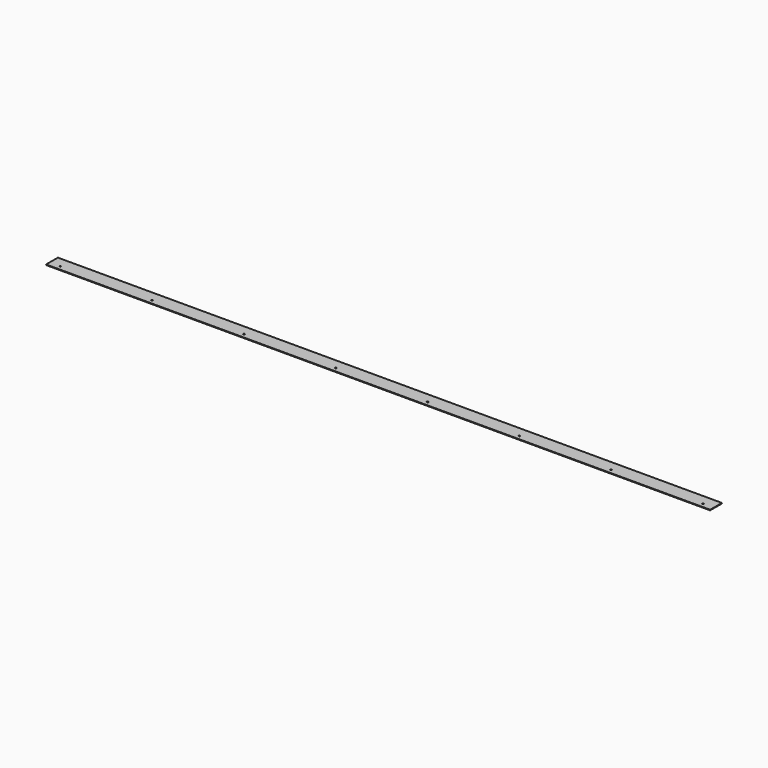
from build123d import *

# Parameters (mm, degrees)
F0_W     = 4500
F0_H     = 100
F0_R     = 5
F1_DEPTH = 4


with BuildPart() as f1:
    # F0 (on Top) → F1 (new body)
    with BuildSketch(Plane.XY):
        Rectangle(F0_W, F0_H)
        with Locations((-2177.5, -20)):
            Circle(F0_R, mode=Mode.SUBTRACT)
        with Locations((-1555.34, -20)):
            Circle(F0_R, mode=Mode.SUBTRACT)
        with Locations((-933.2, -20)):
            Circle(F0_R, mode=Mode.SUBTRACT)
        with Locations((-311.06, -20)):
            Circle(F0_R, mode=Mode.SUBTRACT)
        with Locations((311.08, -20)):
            Circle(F0_R, mode=Mode.SUBTRACT)
        with Locations((933.22, -20)):
            Circle(F0_R, mode=Mode.SUBTRACT)
        with Locations((1555.36, -20)):
            Circle(F0_R, mode=Mode.SUBTRACT)
        with Locations((2177.5, -20)):
            Circle(F0_R, mode=Mode.SUBTRACT)
    extrude(amount=F1_DEPTH)


solid = f1.part
